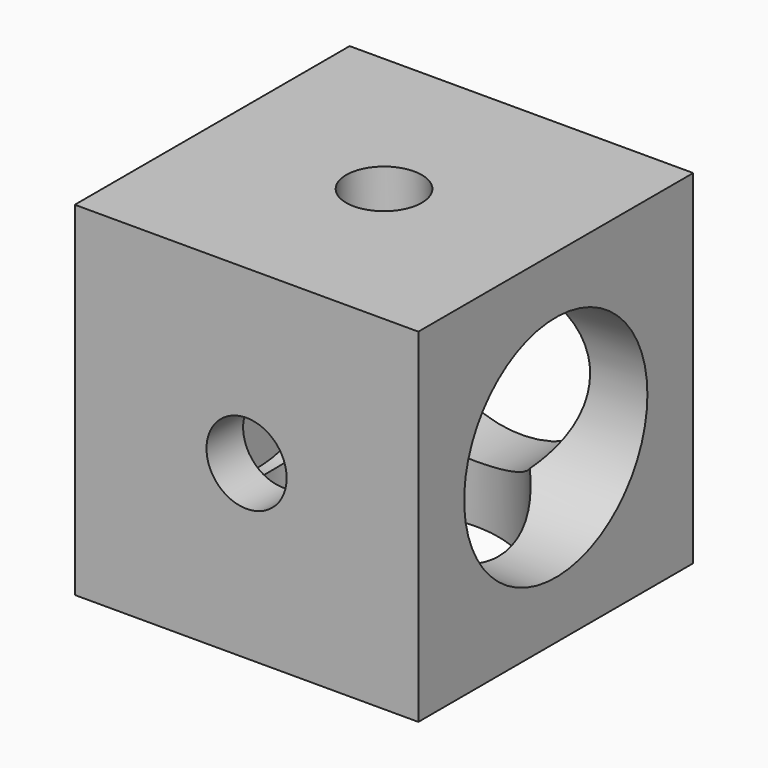
from build123d import *

# Parameters (mm, degrees)
F0_W     = 15
F0_H     = 15
F0_R     = 1.75
F1_DEPTH = 15
F2_R     = 5
F3_DEPTH = 13
F4_R     = 1.75
F5_DEPTH = 15
F4_R_2   = 5
F6_DEPTH = 13
F7_R     = 1.65
F8_DEPTH = 15
F7_R_2   = 5
F9_DEPTH = 13


with BuildPart() as f1:
    # F0 (on Front) → F1 (new body)
    with BuildSketch(Plane.XZ):
        Rectangle(F0_W, F0_H)
        Circle(F0_R, mode=Mode.SUBTRACT)
    extrude(amount=F1_DEPTH)

    # F2 (on face) → F3 (cut)
    with BuildSketch(Plane.XZ):
        Circle(F2_R)
    extrude(amount=F3_DEPTH, mode=Mode.SUBTRACT)

    # F4 (on face) → F5 (cut)
    with BuildSketch(Plane.YZ.offset(7.5)):
        with Locations((-7.5, 0)):
            Circle(F4_R)
    extrude(amount=-F5_DEPTH, mode=Mode.SUBTRACT)

    # F4 (on face) → F6 (cut)
    with BuildSketch(Plane.YZ.offset(7.5)):
        with Locations((-7.5, 0)):
            Circle(F4_R_2)
        with Locations((-7.5, 0)):
            Circle(F4_R, mode=Mode.SUBTRACT)
    extrude(amount=-F6_DEPTH, mode=Mode.SUBTRACT)

    # F7 (on face) → F8 (cut)
    with BuildSketch(Plane(origin=(0, 0, -7.5), x_dir=(1, 0, 0), z_dir=(0, 0, -1))):
        with Locations((0, 7.5)):
            Circle(F7_R)
    extrude(amount=-F8_DEPTH, mode=Mode.SUBTRACT)

    # F7 (on face) → F9 (cut)
    with BuildSketch(Plane(origin=(0, 0, -7.5), x_dir=(1, 0, 0), z_dir=(0, 0, -1))):
        with Locations((0, 7.5)):
            Circle(F7_R_2)
        with Locations((0, 7.5)):
            Circle(F7_R, mode=Mode.SUBTRACT)
    extrude(amount=-F9_DEPTH, mode=Mode.SUBTRACT)


solid = f1.part
